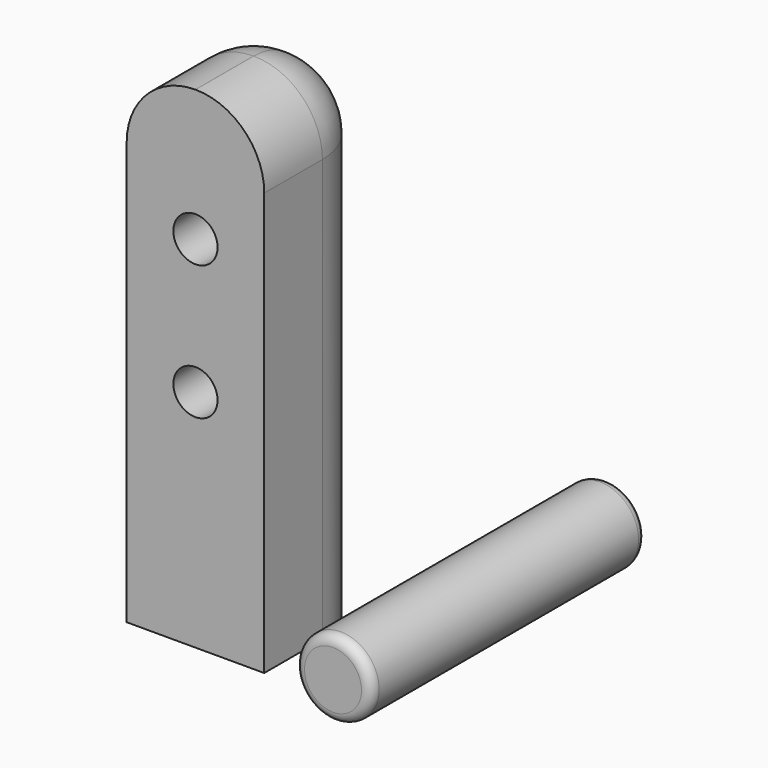
from build123d import *

# Parameters (mm, degrees)
PAD_DEPTH           = 50
FILLET_R            = 6.99
SKETCH001_R         = 4.1
POCKET_DEPTH        = 18
SKETCH002_R         = 3.9
POCKET001_DEPTH     = 8
SKETCH003_R         = 2.25
POCKET002_DEPTH     = 14.401
LINEARPATTERN_COUNT = 2
LINEARPATTERN_PITCH = 13.7
FILLET002_R         = 1
SKETCH004_R         = 3.9
PAD001_DEPTH        = 35
FILLET001_R         = 1


with BuildPart() as obj1:
    # Sketch → Pad (new body)
    with BuildSketch(Plane.XY):
        with BuildLine():
            Line((-7, 0), (7, 0))
            Line((7, 0), (7, 7.4))
            ThreePointArc((7, 7.4), (4.949747, 12.349747), (0, 14.4))
            ThreePointArc((0, 14.4), (-4.949747, 12.349747), (-7, 7.4))
            Line((-7, 7.4), (-7, 0))
        make_face()
    extrude(amount=PAD_DEPTH)

    # Fillet
    fillet_edges = [obj1.edges().sort_by_distance(p)[0] for p in [
        (4.949747, 12.349747, 50),
    ]]
    fillet(fillet_edges, radius=FILLET_R)

    # Sketch001 → Pocket (cut)
    with BuildSketch(Plane.XY):
        with Locations((0, 7.8)):
            Circle(SKETCH001_R)
    extrude(amount=POCKET_DEPTH, mode=Mode.SUBTRACT)

    # Sketch002 (on DatumPlane) → Pocket001 (cut)
    with BuildSketch(Plane(origin=(0, 14.4, 19), x_dir=(-1, 0, 0), z_dir=(0, 1, 0))):
        with Locations((0, 3.9)):
            Circle(SKETCH002_R)
    pocket001 = extrude(amount=-POCKET001_DEPTH, mode=Mode.SUBTRACT)

    # Sketch003 (on DatumPlane) → Pocket002 (cut, through all)
    with BuildSketch(Plane(origin=(0, 14.4, 19), x_dir=(-1, 0, 0), z_dir=(0, 1, 0))):
        with Locations((0, 3.9)):
            Circle(SKETCH003_R)
    pocket002 = extrude(amount=-POCKET002_DEPTH, mode=Mode.SUBTRACT)

    # LinearPattern: Pocket001, Pocket002 ×2
    with Locations(*[(0, 0, i * LINEARPATTERN_PITCH) for i in range(1, LINEARPATTERN_COUNT)]):
        add(pocket001, mode=Mode.SUBTRACT)
        add(pocket002, mode=Mode.SUBTRACT)

    # Fillet002
    fillet002_edges = [obj1.edges().sort_by_distance(p)[0] for p in [
        (-4.1, 7.8, 0),
    ]]
    fillet(fillet002_edges, radius=FILLET002_R)


with BuildPart() as obj2:
    # Sketch004 → Pad001 (new body)
    with BuildSketch(Plane.XZ):
        Circle(SKETCH004_R)
    extrude(amount=PAD001_DEPTH)

    # Fillet001
    fillet001_edges = [obj2.edges().sort_by_distance(p)[0] for p in [
        (-3.9, 0, 0),
        (-3.9, -35, 0),
    ]]
    fillet(fillet001_edges, radius=FILLET001_R)


with BuildPart() as obj2_1:
    # Body001 placement: moved
    add(obj2.part.moved(Location((30, 15, 15))))


solid = Compound([obj1.part, obj2_1.part])
